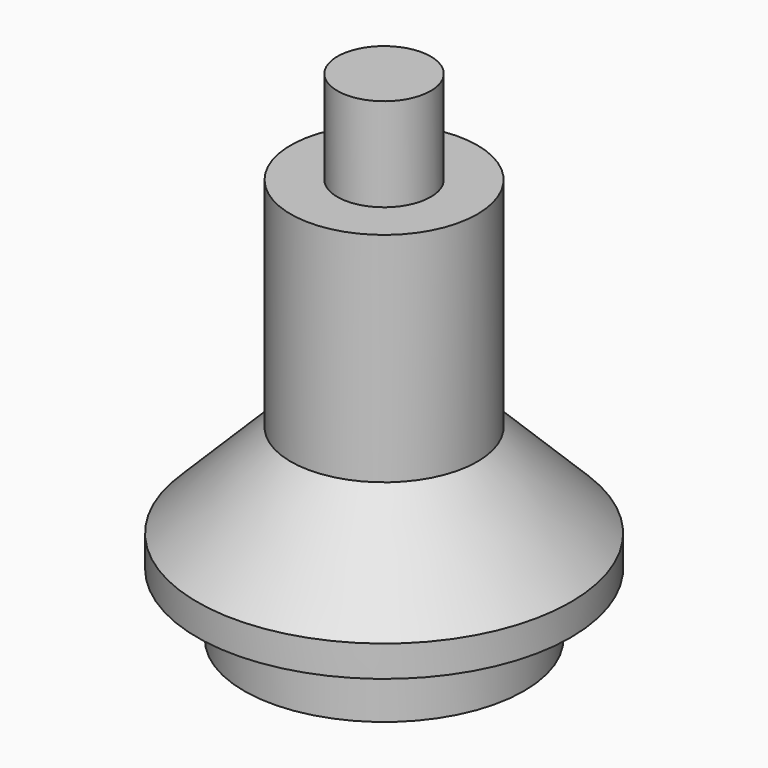
from build123d import *

# Parameters (mm, degrees)
F0_R     = 22.5
F1_DEPTH = 15
F4_R     = 30
F5_DEPTH = 5
F6_R     = 15
F7_DEPTH = 35
F8_R     = 7.5
F9_DEPTH = 15


with BuildPart() as f1:
    # F0 (on Top) → F1 (new body)
    with BuildSketch(Plane.XY):
        Circle(F0_R)
    extrude(amount=F1_DEPTH)

    # F2 (on Front) → F3 (revolve)
    with BuildSketch(Plane.XZ):
        Polygon((-30, 15), (0, 15), (0, 30), (-15, 30), align=None)
    revolve(axis=Axis((0, 0, 7.5), (0, 0, 1)))

    # F4 (on face) → F5 (join)
    with BuildSketch(Plane(origin=(0, 0, 15), x_dir=(1, 0, 0), z_dir=(0, 0, -1))):
        Circle(F4_R)
    extrude(amount=F5_DEPTH)

    # F6 (on face) → F7 (join)
    with BuildSketch(Plane.XY.offset(30)):
        Circle(F6_R)
    extrude(amount=F7_DEPTH)

    # F8 (on face) → F9 (join)
    with BuildSketch(Plane.XY.offset(65)):
        Circle(F8_R)
    extrude(amount=F9_DEPTH)


solid = f1.part
